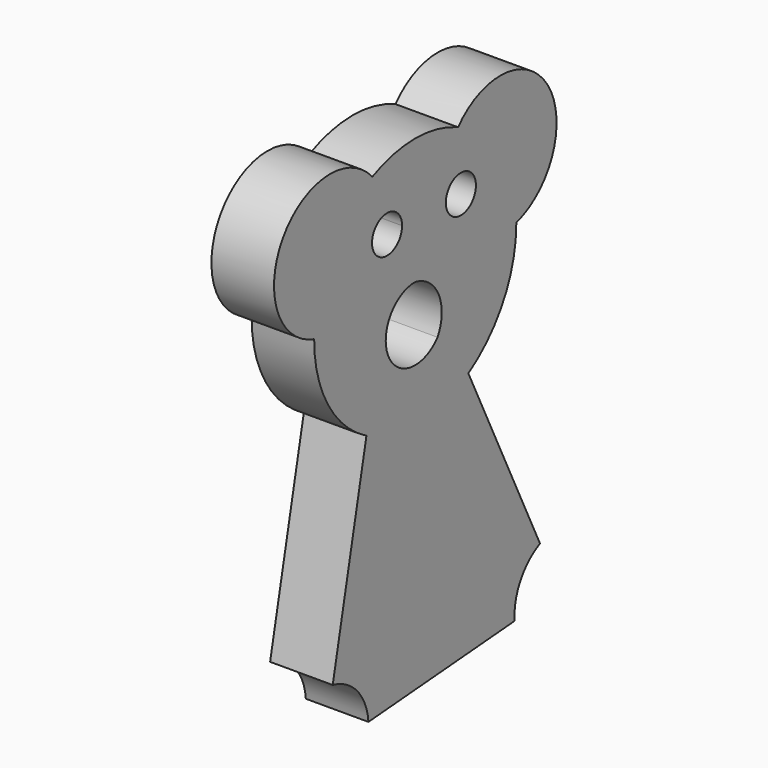
from build123d import *

# Parameters (mm, degrees)
F1_DEPTH = 25


with BuildPart() as f1:
    # F0 (on Right) → F1 (new body)
    with BuildSketch(Plane.YZ):
        with BuildLine():
            Line((62.268494035, -117.2657224541), (26.5148173721, -42.9157082976))
            ThreePointArc((26.5148173721, -42.9157082976), (1.2487643575, -50.4304882639), (-24.3582585984, -44.1754320523))
            Line((-24.3582585984, -44.1754320523), (-41.1918519377, -124.9397814602))
            ThreePointArc((-41.1918519377, -124.9397814602), (-28.905337679, -132.0868997864), (-23.3544766233, -145.1722990748))
            Line((-23.3544766233, -145.1722990748), (49.5911414452, -139.3371221753))
            ThreePointArc((49.5911414452, -139.3371221753), (52.5088729266, -126.3365028199), (62.268494035, -117.2657224541))
        make_face()
        with BuildLine():
            ThreePointArc((26.5148173721, -42.9157082976), (44.0588165312, -24.5685621237), (50.4459469032, 0))
            ThreePointArc((50.4459469032, 0), (50.4457051903, 0.1561627636), (50.4449800541, 0.3123240306))
            ThreePointArc((50.4449800541, 0.3123240306), (48.3675580647, 14.3308368847), (42.4729821328, 27.2183641629))
            Line((42.4729821328, 27.2183641629), (27.7815824315, 27.2183641629))
            ThreePointArc((27.7815824315, 27.2183641629), (29.6215359729, 24.6926196845), (30.2725235865, 21.6363099275))
            ThreePointArc((30.2725235865, 21.6363099275), (19.7162138294, 14.7872975411), (17.7634647415, 27.2183641629))
            Line((17.7634647415, 27.2183641629), (-8.2927525458, 27.2183641629))
            ThreePointArc((-8.2927525458, 27.2183641629), (-7.0141543228, 24.9776791667), (-6.5704554783, 22.4362988324))
            ThreePointArc((-6.5704554783, 22.4362988324), (-16.6118358125, 15.379997677), (-19.8481584107, 27.2183641629))
            Line((-19.8481584107, 27.2183641629), (-42.4729821328, 27.2183641629))
            ThreePointArc((-42.4729821328, 27.2183641629), (-48.3583492389, 14.361880721), (-50.4445375277, 0.3770843017))
            ThreePointArc((-50.4445375277, 0.3770843017), (-43.5327032866, -25.4891605102), (-24.3582585984, -44.1754320523))
            ThreePointArc((-24.3582585984, -44.1754320523), (1.2487643575, -50.4304882639), (26.5148173721, -42.9157082976))
        make_face()
        with BuildLine():
            ThreePointArc((11.1447488889, -24.0004807711), (-13.3697300078, -20.7961057501), (0, 0))
            ThreePointArc((0, 0), (11.7053783119, -9.1523479333), (11.1447488889, -24.0004807711))
        make_face(mode=Mode.SUBTRACT)
        with BuildLine():
            Line((27.7815824315, 27.2183641629), (42.4729821328, 27.2183641629))
            ThreePointArc((42.4729821328, 27.2183641629), (33.2264505165, 37.9578258733), (21.3576968642, 45.7016667487))
            ThreePointArc((21.3576968642, 45.7016667487), (-0.0323808915, 50.4459365106), (-21.4163503965, 45.6742103889))
            ThreePointArc((-21.4163503965, 45.6742103889), (-33.2508085276, 37.9364902332), (-42.4729821328, 27.2183641629))
            Line((-42.4729821328, 27.2183641629), (-19.8481584107, 27.2183641629))
            ThreePointArc((-19.8481584107, 27.2183641629), (-17.5022305288, 29.105100824), (-14.6033657252, 29.9173419862))
            ThreePointArc((-14.6033657252, 29.9173419862), (-11.1212042341, 29.3320886421), (-8.2927525458, 27.2183641629))
            Line((-8.2927525458, 27.2183641629), (17.7634647415, 27.2183641629))
            ThreePointArc((17.7634647415, 27.2183641629), (22.7725235865, 29.1363099275), (27.7815824315, 27.2183641629))
        make_face()
        with BuildLine():
            ThreePointArc((-42.4729821328, 27.2183641629), (-33.2508085276, 37.9364902332), (-21.4163503965, 45.6742103889))
            ThreePointArc((-21.4163503965, 45.6742103889), (-66.0475916451, 42.3259048742), (-50.4445375277, 0.3770843017))
            ThreePointArc((-50.4445375277, 0.3770843017), (-48.3583492389, 14.361880721), (-42.4729821328, 27.2183641629))
        make_face()
        with BuildLine():
            ThreePointArc((42.4729821328, 27.2183641629), (48.3675580647, 14.3308368847), (50.4449800541, 0.3123240306))
            ThreePointArc((50.4449800541, 0.3123240306), (66.0999711215, 42.3594717111), (21.3576968642, 45.7016667487))
            ThreePointArc((21.3576968642, 45.7016667487), (33.2264505165, 37.9578258733), (42.4729821328, 27.2183641629))
        make_face()
    extrude(amount=F1_DEPTH)


solid = f1.part
